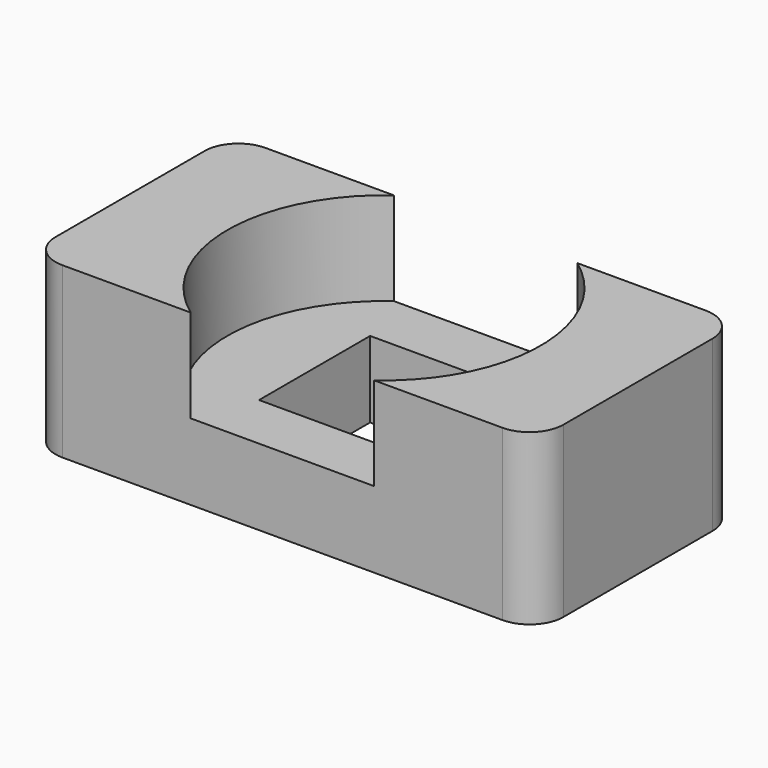
from build123d import *

# Parameters (mm, degrees)
F0_W     = 8.2
F0_H     = 8.2
F1_DEPTH = 10
F2_R     = 9.25
F3_DEPTH = 5.5


with BuildPart() as f1:
    # F0 (on Top) → F1 (new body)
    with BuildSketch(Plane.XY):
        with BuildLine():
            ThreePointArc((15, 5.5), (14.414214, 6.914214), (13, 7.5))
            Line((13, 7.5), (-13, 7.5))
            ThreePointArc((-13, 7.5), (-14.414214, 6.914214), (-15, 5.5))
            Line((-15, 5.5), (-15, -5.5))
            ThreePointArc((-15, -5.5), (-14.414214, -6.914214), (-13, -7.5))
            Line((-13, -7.5), (13, -7.5))
            ThreePointArc((13, -7.5), (14.414214, -6.914214), (15, -5.5))
            Line((15, -5.5), (15, 5.5))
        make_face()
        Rectangle(F0_W, F0_H, mode=Mode.SUBTRACT)
    extrude(amount=F1_DEPTH)

    # F2 (on face) → F3 (cut)
    with BuildSketch(Plane.XY.offset(10)):
        Circle(F2_R)
    extrude(amount=-F3_DEPTH, mode=Mode.SUBTRACT)


solid = f1.part
